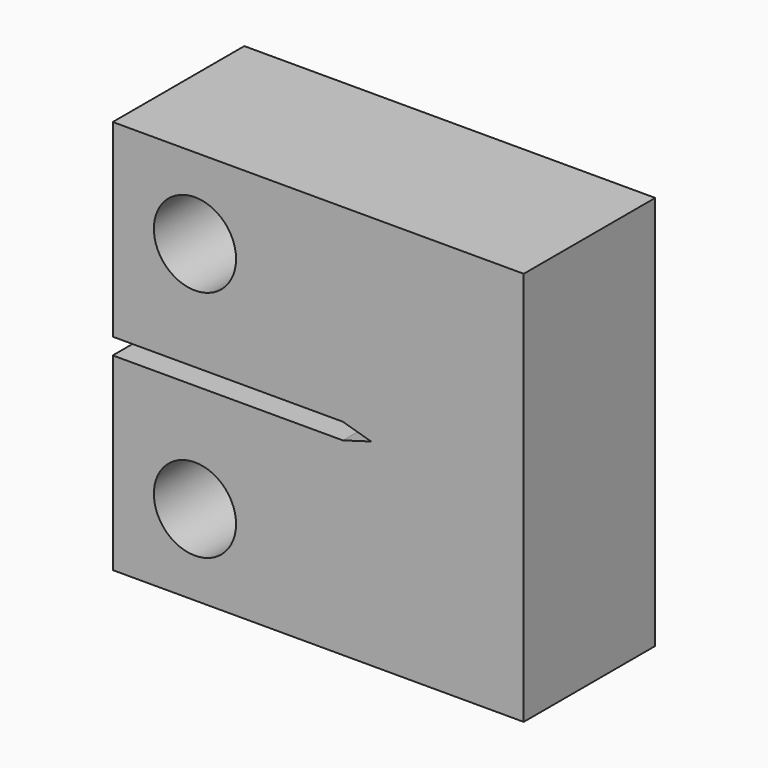
from build123d import *

# Parameters (mm, degrees)
F0_R     = 6.35
F1_DEPTH = 25.4


with BuildPart() as f1:
    # F0 (on Front) → F1 (new body)
    with BuildSketch(Plane.XZ):
        Polygon((-31.75, -1.27), (-31.75, -30.48), (31.75, -30.48), (31.75, 30.48), (-31.75, 30.48), (-31.75, 1.27), (3.81, 1.27), (8.171243, 0), (3.81, -1.27), align=None)
        with Locations((-19.05, -18.034)):
            Circle(F0_R, mode=Mode.SUBTRACT)
        with Locations((-19.05, 18.034)):
            Circle(F0_R, mode=Mode.SUBTRACT)
    extrude(amount=F1_DEPTH)


solid = f1.part
